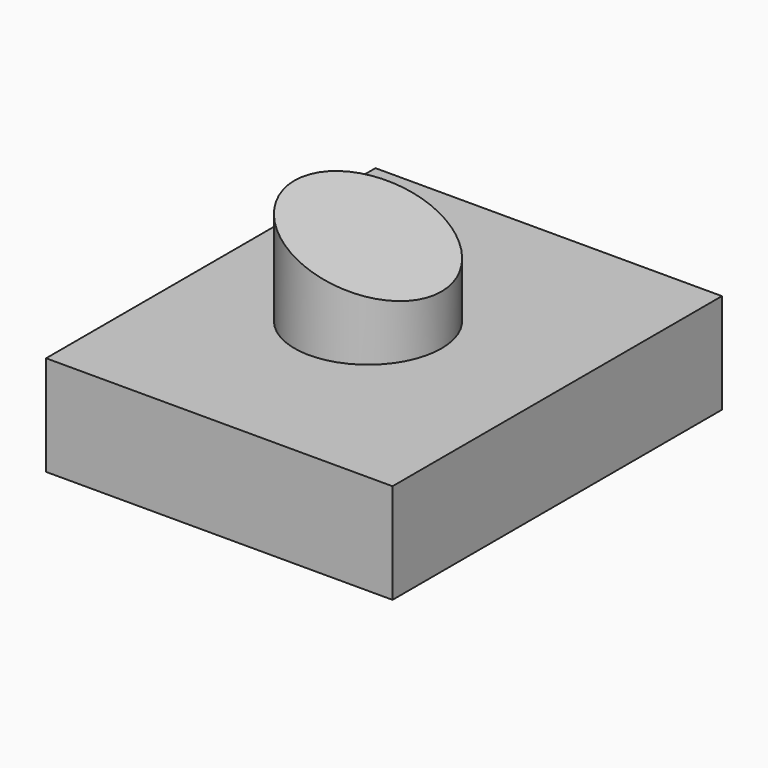
from build123d import *

# Parameters (mm, degrees)
F0_W     = 87.957568
F0_H     = 104.53599
F1_DEPTH = 25.4
F2_R     = 18.659925
F3_DEPTH = 25.4
F5_DEPTH = 104.536989


with BuildPart() as f1:
    # F0 (on Top) → F1 (new body)
    with BuildSketch(Plane.XY):
        Rectangle(F0_W, F0_H)
    extrude(amount=F1_DEPTH)

    # F2 (on face) → F3 (join)
    with BuildSketch(Plane.XY.offset(25.4)):
        with Locations((-4.059047, 0)):
            Circle(F2_R)
    extrude(amount=F3_DEPTH)

    # F4 (on face) → F5 (cut, through all)
    with BuildSketch(Plane.XZ.offset(52.267995)):
        Polygon((14.600879, 50.8), (-22.718972, 50.8), (14.600879, 38.1), align=None)
    extrude(amount=-F5_DEPTH, mode=Mode.SUBTRACT)


solid = f1.part
